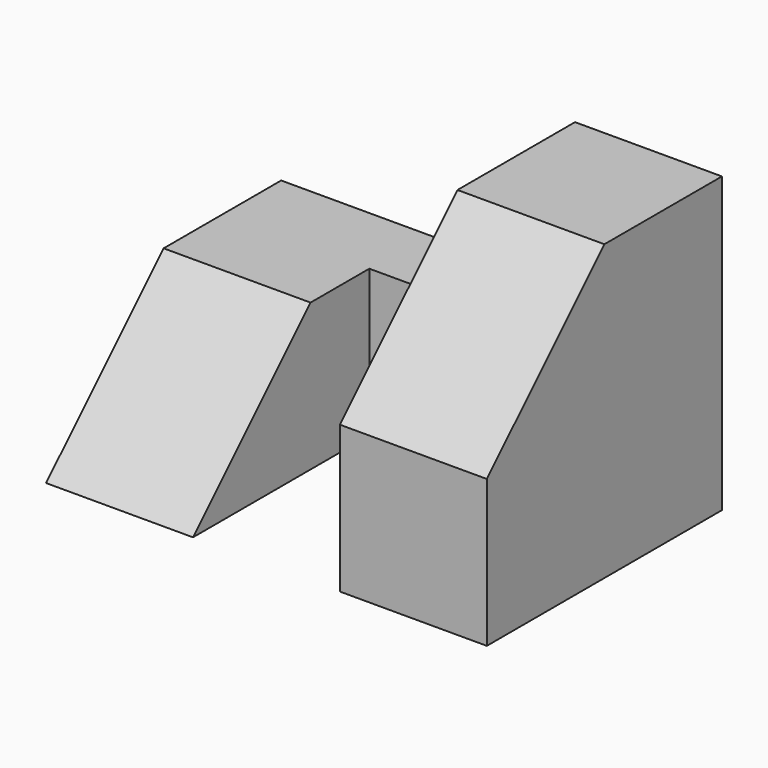
from build123d import *

# Parameters (mm, degrees)
F1_DEPTH = 12.7
F2_W     = 12.7
F2_H     = 12.7
F3_DEPTH = 6.35
F5_DEPTH = 12.7


with BuildPart() as f1:
    # F0 (on Right) → F1 (new body)
    with BuildSketch(Plane.YZ):
        Polygon((0, 12.7), (0, 0), (25.4, 0), (25.4, 25.4), (12.7, 25.4), align=None)
    extrude(amount=-F1_DEPTH)


with BuildPart() as f3:
    # F2 (on face) → F3 (new body)
    with BuildSketch(Plane(origin=(0, 25.4, 0), x_dir=(-1, 0, 0), z_dir=(0, 1, 0))):
        with Locations((19.05, 6.35)):
            Rectangle(F2_W, F2_H)
    extrude(amount=-F3_DEPTH)

    # F4 (on face) → F5 (join)
    with BuildSketch(Plane(origin=(-25.4, 0, 0), x_dir=(0, -1, 0), z_dir=(-1, 0, 0))):
        Polygon((-12.7, 12.7), (-25.4, 12.7), (-25.4, 0), (0, 0), align=None)
    extrude(amount=F5_DEPTH)


solid = Compound([f1.part, f3.part])
